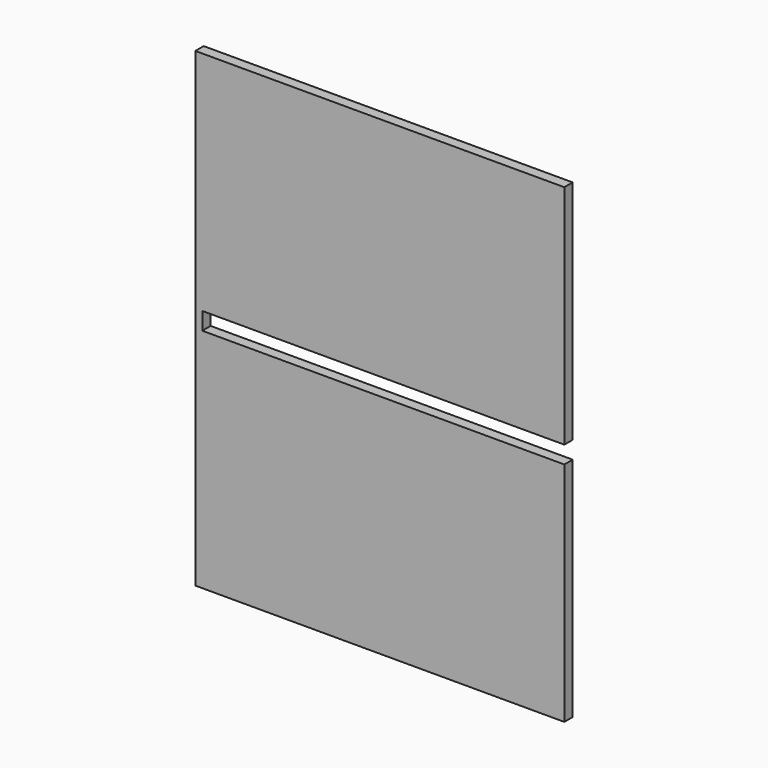
from build123d import *

# Parameters (mm, degrees)
F0_W     = 635
F0_H     = 810
F1_DEPTH = 18
F2_W     = 18
F2_H     = 30
F3_DEPTH = 623


with BuildPart() as f1:
    # F0 (on Front) → F1 (new body)
    with BuildSketch(Plane.XZ):
        Rectangle(F0_W, F0_H)
    extrude(amount=F1_DEPTH)

    # F2 (on face) → F3 (cut)
    with BuildSketch(Plane.YZ.offset(317.5)):
        with Locations((-9, 0)):
            Rectangle(F2_W, F2_H)
    extrude(amount=-F3_DEPTH, mode=Mode.SUBTRACT)


solid = f1.part
